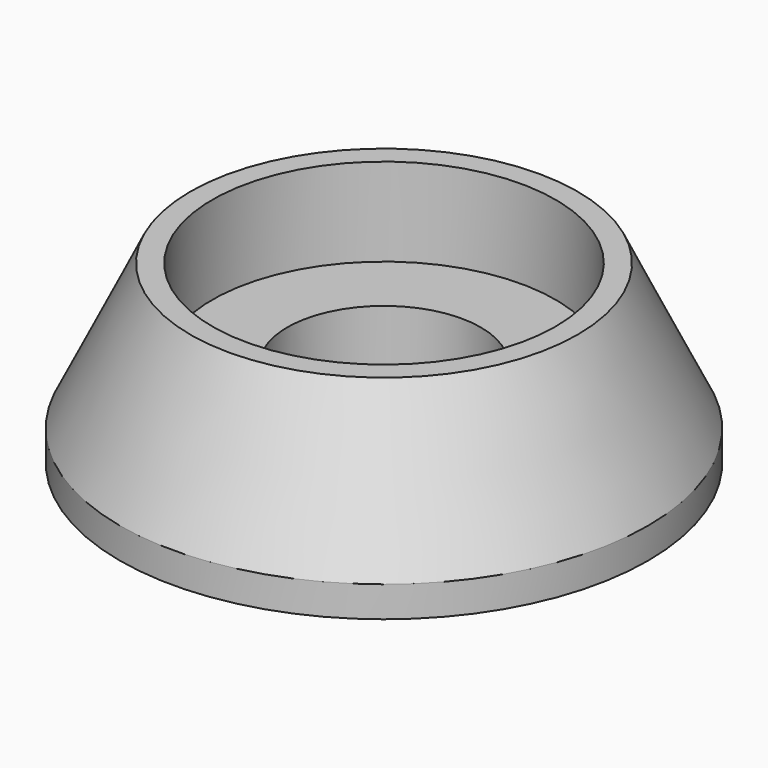
from build123d import *

# Parameters (mm, degrees)
F7_R  = 3
F8_R  = 3
F10_R = 2.2
F9_R  = 1.95
F11_R = 1.95
F13_R = 1.1
F12_R = 1.1


with BuildPart() as f14:
    # F7 (on Top) → F14 section 0
    with BuildSketch(Plane.XY):
        Circle(F7_R)
    # F8 (on offset) → F14 section 1
    with BuildSketch(Plane.XY.offset(0.35)):
        Circle(F8_R)
    loft()

    # F10 (on offset) → F15 section 0
    with BuildSketch(Plane.XY.offset(2)):
        Circle(F10_R)
    # F8 (on offset) → F15 section 1
    with BuildSketch(Plane.XY.offset(0.35)):
        Circle(F8_R)
    loft()

    # F9 (on offset) → F16 section 0
    with BuildSketch(Plane.XY.offset(2)):
        Circle(F9_R)
    # F11 (on offset) → F16 section 1
    with BuildSketch(Plane.XY.offset(1)):
        Circle(F11_R)
    loft(mode=Mode.SUBTRACT)

    # F13 (on offset) → F17 section 0
    with BuildSketch(Plane.XY.offset(1)):
        Circle(F13_R)
    # F12 (on Top) → F17 section 1
    with BuildSketch(Plane.XY):
        Circle(F12_R)
    loft(mode=Mode.SUBTRACT)


solid = f14.part
